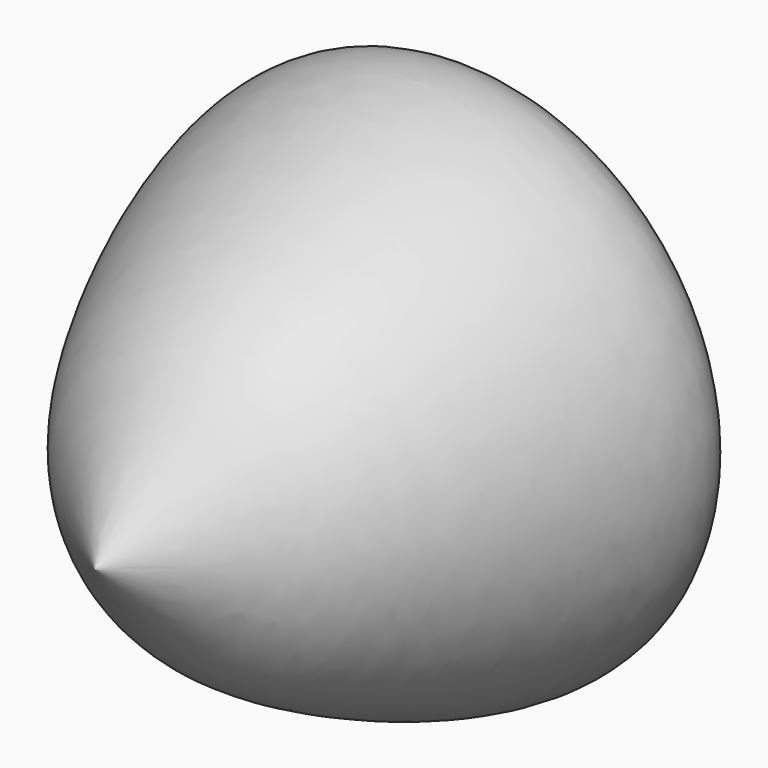
from build123d import *


with BuildPart() as f1:
    # F0 (on Top) → F1 (revolve)
    with BuildSketch(Plane.XY):
        with BuildLine():
            add(Edge.make_bspline(
                [(0, 75), (15.654518471, 70.6445076627), (38.4821420563, 66.7995376863), (53.3267458899, 60.5616663965), (87.8520487784, 52.1103701512), (52.1527882688, -32.547768534), (27.6553802992, -52.225044912), (9.1354550861, -67.7622747618), (0, -75)],
                knots=[0, 0, 0, 0, 0.1761201393, 0.2890960801, 0.424113592, 0.6710995732, 0.8371049637, 1, 1, 1, 1], degree=3))
            Line((0, 75), (0, -75))
        make_face()
    revolve(axis=Axis((0, 0, 0), (0, -1, 0)))


solid = f1.part
